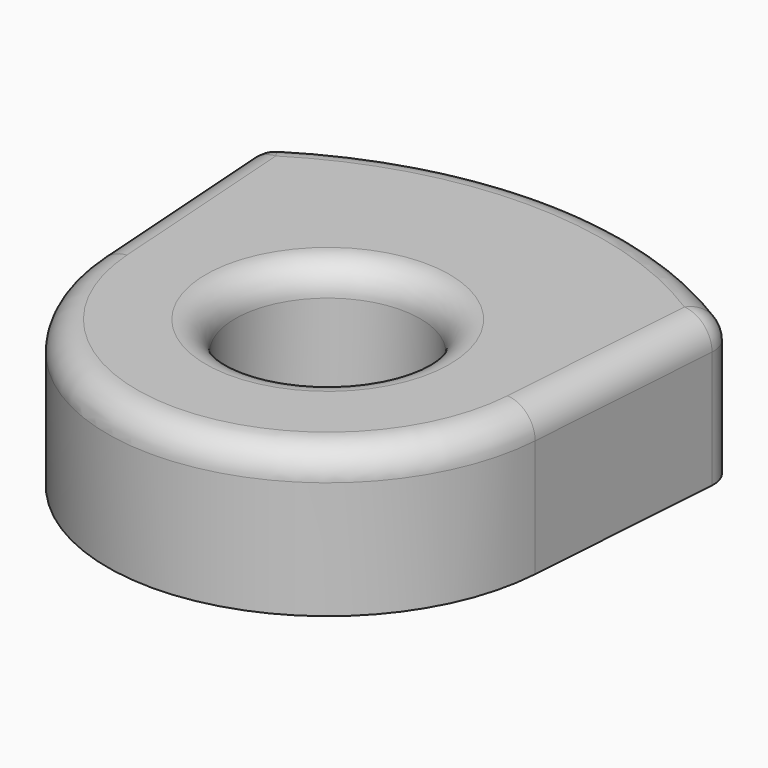
from build123d import *

# Parameters (mm, degrees)
F0_R     = 3.15
F1_DEPTH = 5
F2_R     = 1


with BuildPart() as f1:
    # F0 (on Top) → F1 (new body)
    with BuildSketch(Plane.XY):
        with BuildLine():
            Line((-8, 7), (-7.482267, -0.515448))
            ThreePointArc((-7.482267, -0.515448), (0, -7.5), (7.482267, -0.515448))
            Line((7.482267, -0.515448), (8, 7))
            ThreePointArc((8, 7), (0, 9.5), (-8, 7))
        make_face()
        Circle(F0_R, mode=Mode.SUBTRACT)
    extrude(amount=F1_DEPTH)

    # F2
    f2_edges = [f1.edges().sort_by_distance(p)[0] for p in [
        (-8, 7, 2.5),
        (0, -7.5, 5),
        (0, 9.5, 5),
        (8, 7, 2.5),
        (-3.15, 0, 5),
    ]]
    fillet(f2_edges, radius=F2_R)


solid = f1.part
